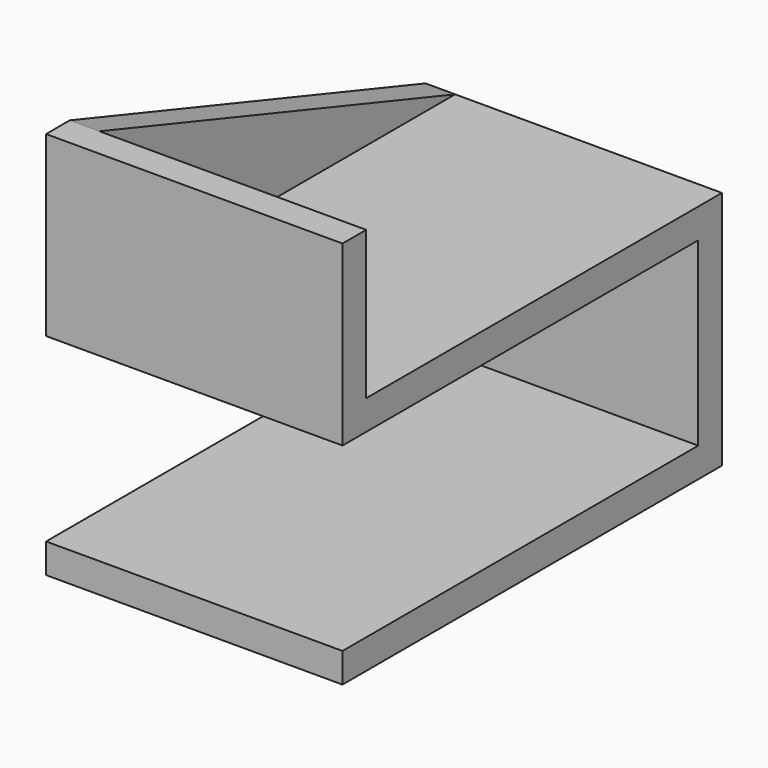
from build123d import *

# Parameters (mm, degrees)
F0_W     = 25
F0_H     = 2.5
F1_DEPTH = 30.5
F2_W     = 50
F2_H     = 80
F3_DEPTH = 5
F4_W     = 50
F4_H     = 5
F5_DEPTH = 25
F7_DEPTH = 5
F8_W     = 50
F8_H     = 5
F9_DEPTH = 80


with BuildPart() as f1:
    # F0 (on Top) → F1 (new body)
    with BuildSketch(Plane.XY):
        with Locations((-12.5, 1.25)):
            Rectangle(F0_W, F0_H)
        with Locations((12.5, 1.25)):
            Rectangle(F0_W, F0_H)
        with Locations((-12.5, -1.25)):
            Rectangle(F0_W, F0_H)
        with Locations((12.5, -1.25)):
            Rectangle(F0_W, F0_H)
    extrude(amount=F1_DEPTH)

    # F2 (on face) → F3 (join)
    with BuildSketch(Plane.XY.offset(30.5)):
        with Locations((0, -37.5)):
            Rectangle(F2_W, F2_H)
    extrude(amount=F3_DEPTH)

    # F4 (on face) → F5 (join)
    with BuildSketch(Plane.XY.offset(35.5)):
        with Locations((0, -75)):
            Rectangle(F4_W, F4_H)
    extrude(amount=F5_DEPTH)

    # F6 (on face) → F7 (join)
    with BuildSketch(Plane(origin=(-25, 0, 0), x_dir=(0, -1, 0), z_dir=(-1, 0, 0))):
        Polygon((77.5, 30.5), (77.5, 60.5), (72.5, 60.5), (-2.5, 35.5), align=None)
    extrude(amount=-F7_DEPTH)

    # F8 (on face) → F9 (join, through all)
    with BuildSketch(Plane(origin=(0, 2.5, 0), x_dir=(-1, 0, 0), z_dir=(0, 1, 0))):
        with Locations((0, -2.5)):
            Rectangle(F8_W, F8_H)
    extrude(amount=-F9_DEPTH)


solid = f1.part
